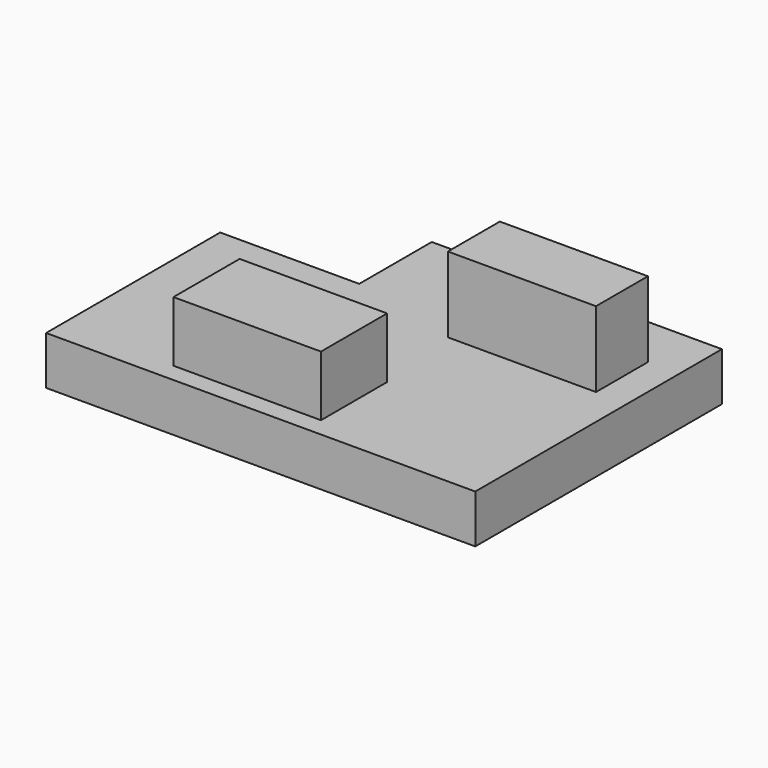
from build123d import *

# Parameters (mm, degrees)
F1_DEPTH = 16
F2_W     = 48.991163
F2_H     = 21.469762
F3_DEPTH = 25
F4_W     = 48.804743
F4_H     = 27.352094
F5_DEPTH = 20


with BuildPart() as f1:
    # F0 (on Top) → F1 (new body)
    with BuildSketch(Plane.XY):
        Polygon((87.884769, 57.809951), (-8.115231, 57.809951), (-8.115231, 27.809951), (-54.115231, 27.809951), (-54.115231, -44.190049), (87.884769, -44.190049), align=None)
    extrude(amount=F1_DEPTH)

    # F2 (on face) → F3 (join)
    with BuildSketch(Plane.XY.offset(16)):
        with Locations((52.972657, 29.482209)):
            Rectangle(F2_W, F2_H)
    extrude(amount=F3_DEPTH)

    # F4 (on face) → F5 (join)
    with BuildSketch(Plane.XY.offset(16)):
        with Locations((7.437617, -24.271876)):
            Rectangle(F4_W, F4_H)
    extrude(amount=F5_DEPTH)


solid = f1.part
